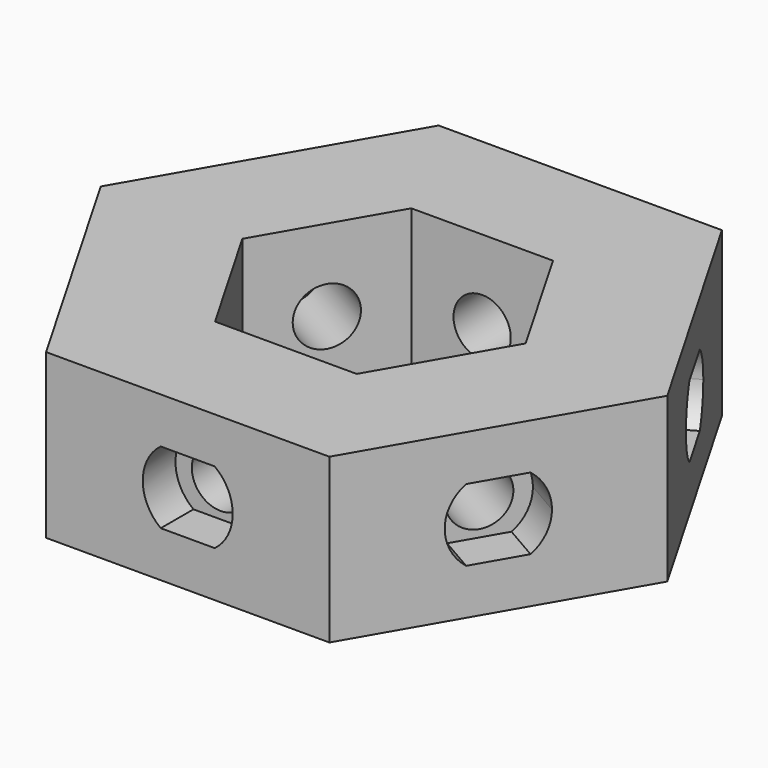
from build123d import *

# Parameters (mm, degrees)
F1_DEPTH = 10
F2_R     = 1.75
F3_DEPTH = 25
F4_DEPTH = 2.5
F6_COUNT = 6
F8_DEPTH = 25


with BuildPart() as f1:
    # F0 (on Top) → F1 (new body)
    with BuildSketch(Plane.XY):
        Polygon((-8.660254, -15), (8.660254, -15), (0, 0), align=None)
    extrude(amount=F1_DEPTH)

    # F2 (on face) → F3 (cut)
    with BuildSketch(Plane.XZ.offset(15)):
        with Locations((0, 5)):
            Circle(F2_R)
    extrude(amount=-F3_DEPTH, mode=Mode.SUBTRACT)

    # F2 (on face) → F4 (cut)
    with BuildSketch(Plane.XZ.offset(15)):
        with BuildLine():
            ThreePointArc((1.65, 2.8), (2.459675, 3.770163), (2.75, 5))
            ThreePointArc((2.75, 5), (2.459675, 6.229837), (1.65, 7.2))
            Line((1.65, 7.2), (-1.65, 7.2))
            ThreePointArc((-1.65, 7.2), (-2.75, 5), (-1.65, 2.8))
            Line((-1.65, 2.8), (1.65, 2.8))
        make_face()
        with Locations((0, 5)):
            Circle(F2_R, mode=Mode.SUBTRACT)
    extrude(amount=-F4_DEPTH, mode=Mode.SUBTRACT)

    # F6: F1 ×6 about axis
    f6_axis = Axis((0, 0, 7.747169), (0, 0, 1))


with BuildPart() as f1_1:
    add(f1.part)
    for i in range(1, F6_COUNT):
        add(f1.part.rotate(f6_axis, i * 360 / F6_COUNT))

    # F7 (on face) → F8 (cut)
    with BuildSketch(Plane.XY.offset(10)):
        Polygon((-4.330127, -7.5), (4.330127, -7.5), (8.660254, 0), (4.330127, 7.5), (-4.330127, 7.5), (-8.660254, 0), align=None)
    extrude(amount=-F8_DEPTH, mode=Mode.SUBTRACT)


solid = f1_1.part
